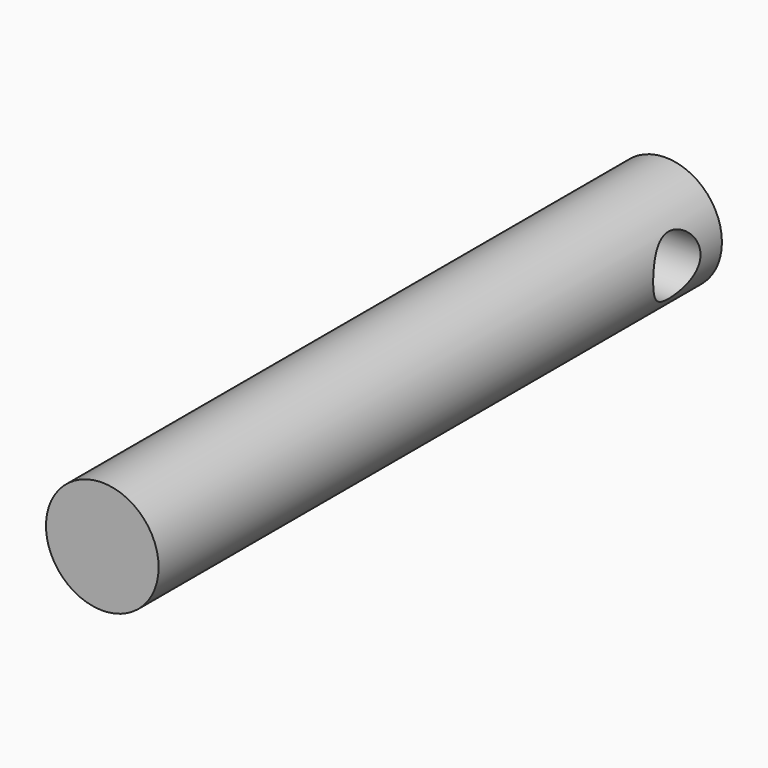
from build123d import *

# Parameters (mm, degrees)
F0_R     = 4
F1_DEPTH = 50
F2_R     = 2.1
F3_DEPTH = 50


with BuildPart() as f1:
    # F0 (on Front) → F1 (new body)
    with BuildSketch(Plane.XZ):
        Circle(F0_R)
    extrude(amount=F1_DEPTH)

    # F2 (on Right) → F3 (cut, symmetric)
    with BuildSketch(Plane.YZ):
        with Locations((-4, 0)):
            Circle(F2_R)
    extrude(amount=F3_DEPTH, both=True, mode=Mode.SUBTRACT)


solid = f1.part
